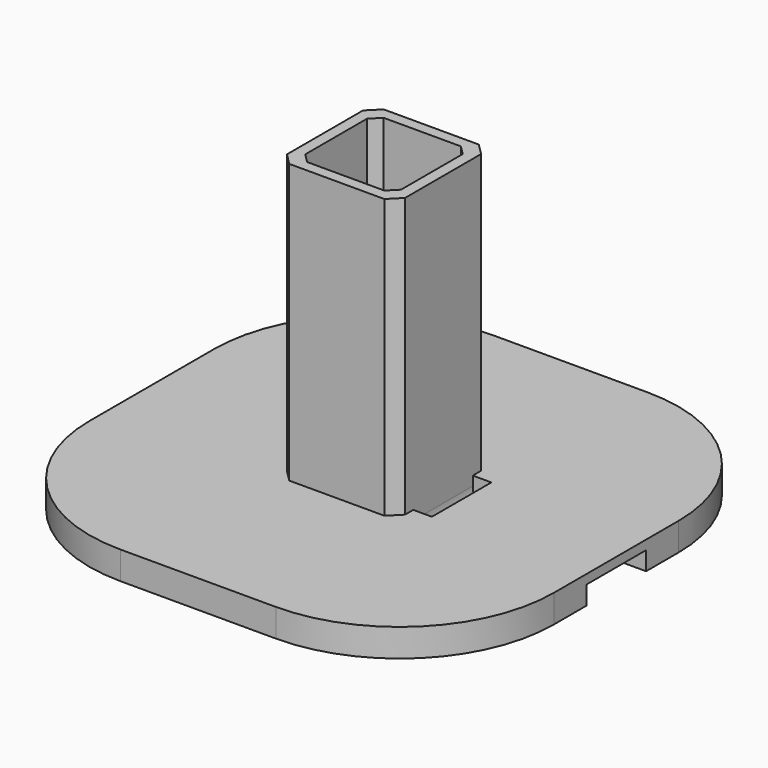
from build123d import *

# Parameters (mm, degrees)
EXTRUDE004_DEPTH                  = 4
EXTRUDE004_ONTO_SKETCH_ROLL_ANGLE = 90
SKETCH003_W                       = 10.3
SKETCH003_H                       = 10.3
EXTRUDE_DEPTH                     = 100
CHAMFER_SIZE                      = 1
EXTRUDE002_DEPTH                  = 3
EXTRUDE003_DEPTH                  = 30


with BuildPart() as extrude004:
    # Sketch as drawn → Extrude004 (new, symmetric)
    with BuildSketch(Plane.XY):
        with BuildLine():
            Line((6.35, 0), (6.35, -1))
            ThreePointArc((6.35, -1), (6.547483, -2.070466), (7.113932, -3))
            Line((7.113932, -3), (25, -3))
            Line((25, -3), (25, -1))
            Line((9.35, -1), (25, -1))
            ThreePointArc((8.35, 0), (8.642893, -0.707107), (9.35, -1))
            Line((6.35, 0), (8.35, 0))
        make_face()
    extrude(amount=EXTRUDE004_DEPTH, both=True)


with BuildPart() as extrude004_1:
    # Extrude004 onto Sketch roll: moved
    add(extrude004.part.rotate(Axis((0, 0, 0), (1, 0, 0)), EXTRUDE004_ONTO_SKETCH_ROLL_ANGLE))


with BuildPart() as extrude004_2:
    # Extrude004 onto Sketch placement: moved
    add(extrude004_1.part)


with BuildPart() as chamfer_body:
    # Sketch003 → Extrude (new body)
    with BuildSketch(Plane.XY):
        Rectangle(SKETCH003_W, SKETCH003_H)
    extrude(amount=EXTRUDE_DEPTH)

    # Chamfer
    chamfer_edges = [chamfer_body.edges().sort_by_distance(p)[0] for p in [
        (-5.15, -5.15, 50),
        (5.15, -5.15, 50),
        (5.15, 5.15, 50),
        (-5.15, 5.15, 50),
    ]]
    chamfer(chamfer_edges, length=CHAMFER_SIZE)


with BuildPart() as extrude002:
    # Sketch001 → Extrude002 (new body)
    with BuildSketch(Plane(origin=(0, 0, 0), x_dir=(1, 0, 0), z_dir=(0, 0, -1))):
        with BuildLine():
            Line((0, 25), (8.360273, 25))
            ThreePointArc((25, 8.360273), (20.126337, 20.126337), (8.360273, 25))
            Line((25, 8.360273), (25, 0))
            Line((25, -8.360273), (25, 0))
            ThreePointArc((8.360273, -25), (20.126337, -20.126337), (25, -8.360273))
            Line((0, -25), (8.360273, -25))
            Line((0, -25), (-8.360273, -25))
            ThreePointArc((-25, -8.360273), (-20.126337, -20.126337), (-8.360273, -25))
            Line((-25, -8.360273), (-25, 0))
            Line((-25, 8.360273), (-25, 0))
            ThreePointArc((-8.360273, 25), (-20.126337, 20.126337), (-25, 8.360273))
            Line((0, 25), (-8.360273, 25))
        make_face()
    extrude(amount=EXTRUDE002_DEPTH)


with BuildPart() as cut001:
    # Sketch002 (on Face13 of Extrude002) → Extrude003 (new body)
    with BuildSketch(Plane.XY):
        Polygon((-6.35, 0), (-6.35, -5.11699), (-5.11699, -6.35), (0, -6.35), (5.11699, -6.35), (6.35, -5.11699), (6.35, 0), (6.35, 5.11699), (5.11699, 6.35), (0, 6.35), (-5.11699, 6.35), (-6.35, 5.11699), align=None)
    extrude(amount=EXTRUDE003_DEPTH)

    # Fusion: union Extrude002
    add(extrude002.part)

    # Cut: cut Chamfer body
    add(chamfer_body.part, mode=Mode.SUBTRACT)

    # Cut001: cut Extrude004
    add(extrude004_2.part, mode=Mode.SUBTRACT)


solid = cut001.part
